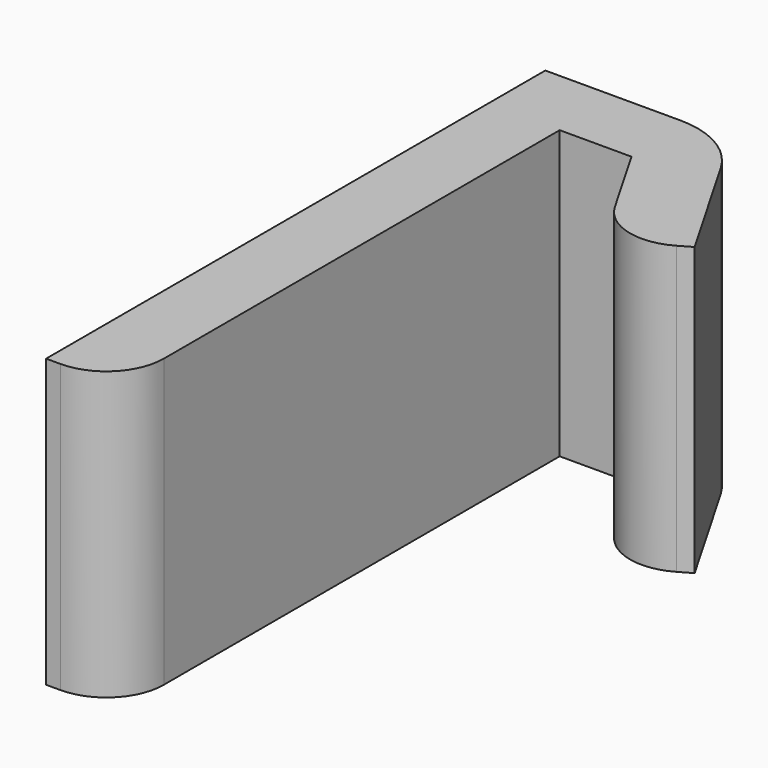
from build123d import *

# Parameters (mm, degrees)
F1_DEPTH = 10
F2_R     = 3


with BuildPart() as f1:
    # F0 (on Top) → F1 (new body)
    with BuildSketch(Plane.XY):
        with BuildLine():
            ThreePointArc((-9.581522, 0), (-8.167308, 0.585786), (-7.581522, 2))
            Line((-7.581522, 2), (-7.581522, 19.23404))
            Line((-7.581522, 19.23404), (-5.081522, 19.23404))
            Line((-5.081522, 19.23404), (-3.581522, 16.635963))
            ThreePointArc((-3.581522, 16.635963), (-2.367109, 15.704112), (-0.849471, 15.903913))
            Line((-0.849471, 15.903913), (-0.416458, 16.153913))
            Line((-0.416458, 16.153913), (-3.638146, 21.73404))
            Line((-3.638146, 21.73404), (-10.081522, 21.73404))
            Line((-10.081522, 21.73404), (-10.081522, 0))
            Line((-10.081522, 0), (-9.581522, 0))
        make_face()
        with BuildLine():
            ThreePointArc((-9.581522, 0), (-8.167308, 0.585786), (-7.581522, 2))
            Line((-7.581522, 2), (-7.581522, 19.23404))
            Line((-7.581522, 19.23404), (-5.081522, 19.23404))
            Line((-5.081522, 19.23404), (-3.581522, 16.635963))
            ThreePointArc((-3.581522, 16.635963), (-2.367109, 15.704112), (-0.849471, 15.903913))
            Line((-0.849471, 15.903913), (-0.416458, 16.153913))
            Line((-0.416458, 16.153913), (-3.638146, 21.73404))
            Line((-3.638146, 21.73404), (-10.081522, 21.73404))
            Line((-10.081522, 21.73404), (-10.081522, 0))
            Line((-10.081522, 0), (-9.581522, 0))
        make_face()
    extrude(amount=F1_DEPTH)

    # F2
    f2_edges = [f1.edges().sort_by_distance(p)[0] for p in [
        (-3.638146, 21.73404, 5),
    ]]
    fillet(f2_edges, radius=F2_R)


solid = f1.part
